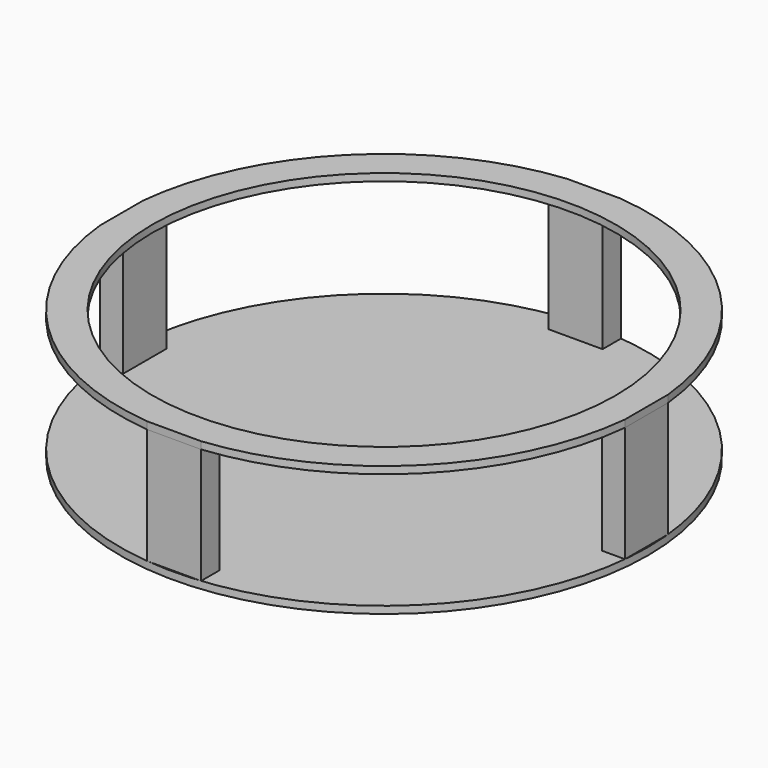
from build123d import *

# Parameters (mm, degrees)
F0_R     = 434.18125
F1_DEPTH = 11.90625
F3_W     = 88.9
F3_H     = 38.1
F3_W_2   = 38.1
F3_H_2   = 88.9
F4_DEPTH = 190.5
F5_DEPTH = 11.90625
F6_R     = 381
F7_DEPTH = 25.4


with BuildPart() as f1:
    # F0 (on Top) → F1 (new body)
    with BuildSketch(Plane.XY):
        Circle(F0_R)
    extrude(amount=F1_DEPTH)


with BuildPart() as f4:
    # F3 (on offset) → F4 (new body, through all)
    with BuildSketch(Plane.XY.offset(202.40625)):
        with Locations((0, 412.849937)):
            Rectangle(F3_W, F3_H)
        with Locations((412.849937, 0)):
            Rectangle(F3_W_2, F3_H_2)
        with Locations((0, -412.849937)):
            Rectangle(F3_W, F3_H)
        with Locations((-412.849937, 0)):
            Rectangle(F3_W_2, F3_H_2)
    extrude(amount=-F4_DEPTH)


with BuildPart() as f5:
    # F3 (on offset) → F5 (new body)
    with BuildSketch(Plane.XY.offset(202.40625)):
        with BuildLine():
            Line((393.799937, 44.45), (431.899937, 44.45))
            ThreePointArc((431.899937, 44.45), (307.012506, 307.012506), (44.45, 431.899937))
            Line((44.45, 431.899937), (44.45, 393.799937))
            Line((44.45, 393.799937), (-44.45, 393.799937))
            Line((-44.45, 393.799937), (-44.45, 431.899937))
            ThreePointArc((-44.45, 431.899937), (-307.012506, 307.012506), (-431.899937, 44.45))
            Line((-431.899937, 44.45), (-393.799937, 44.45))
            Line((-393.799937, 44.45), (-393.799937, -44.45))
            Line((-393.799937, -44.45), (-431.899937, -44.45))
            ThreePointArc((-431.899937, -44.45), (-307.012506, -307.012506), (-44.45, -431.899937))
            Line((-44.45, -431.899937), (-44.45, -393.799937))
            Line((-44.45, -393.799937), (44.45, -393.799937))
            Line((44.45, -393.799937), (44.45, -431.899937))
            ThreePointArc((44.45, -431.899937), (307.012506, -307.012506), (431.899937, -44.45))
            Line((431.899937, -44.45), (393.799937, -44.45))
            Line((393.799937, -44.45), (393.799937, 44.45))
        make_face()
        with Locations((-412.849937, 0)):
            Rectangle(F3_W_2, F3_H_2)
        with Locations((0, -412.849937)):
            Rectangle(F3_W, F3_H)
        with Locations((412.849937, 0)):
            Rectangle(F3_W_2, F3_H_2)
        with Locations((0, 412.849937)):
            Rectangle(F3_W, F3_H)
    extrude(amount=F5_DEPTH)

    # F6 (on face) → F7 (cut)
    with BuildSketch(Plane.XY.offset(214.3125)):
        Circle(F6_R)
    extrude(amount=-F7_DEPTH, mode=Mode.SUBTRACT)


solid = Compound([f1.part, f4.part, f5.part])
